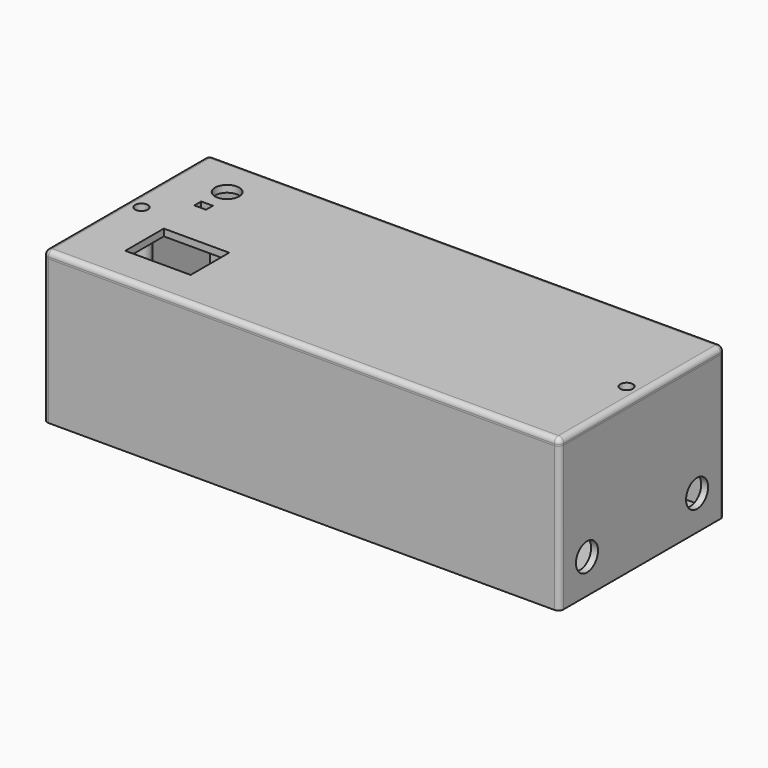
from build123d import *

# Parameters (mm, degrees)
F0_W     = 150
F0_H     = 60
F0_R     = 1.75
F1_DEPTH = 2
F2_W     = 150
F2_H     = 60
F2_R     = 1.25
F3_DEPTH = 40
F4_W     = 150
F4_H     = 60
F4_R     = 1.85
F4_W_2   = 19
F4_H_2   = 14
F4_W_3   = 3.4
F4_H_3   = 2.5
F4_R_2   = 3.5
F5_DEPTH = 2
F6_R     = 1.5
F7_R     = 1.5
F8_R     = 4
F9_DEPTH = 3


with BuildPart() as f1:
    # F0 (on Top) → F1 (new body)
    with BuildSketch(Plane.XY):
        Rectangle(F0_W, F0_H)
        with Locations((-2.5, -18.25)):
            Circle(F0_R, mode=Mode.SUBTRACT)
        with Locations((62, -18.25)):
            Circle(F0_R, mode=Mode.SUBTRACT)
        with Locations((-2.5, 18.25)):
            Circle(F0_R, mode=Mode.SUBTRACT)
        with Locations((62, 18.25)):
            Circle(F0_R, mode=Mode.SUBTRACT)
    extrude(amount=-F1_DEPTH)

    # F2 (on Top) → F3 (join)
    with BuildSketch(Plane.XY):
        Rectangle(F2_W, F2_H)
        with Locations((-70.5, 0)):
            Circle(F2_R, mode=Mode.SUBTRACT)
        with BuildLine():
            Line((-73, 28), (73, 28))
            Line((73, 28), (73, 2.479292469))
            Line((73, 2.479292469), (70.5207932884, 2.4999135263))
            ThreePointArc((70.5207932884, 2.4999135263), (68.0000180064, -0.0094885014), (70.5397688992, -2.4996836669))
            Line((70.5397688992, -2.4996836669), (73, -2.4996836669))
            Line((73, -2.4996836669), (73, -28))
            Line((73, -28), (-73, -28))
            Line((-73, -28), (-73, -2.4493907383))
            Line((-73, -2.4493907383), (-70.551121414, -2.4994772656))
            ThreePointArc((-70.551121414, -2.4994772656), (-68.0007111858, -0.0596273679), (-70.4318673688, 2.4990714165))
            Line((-70.4318673688, 2.4990714165), (-70.5681326312, 2.4990714165))
            Line((-70.5681326312, 2.4990714165), (-73, 2.4990714165))
            Line((-73, 2.4990714165), (-73, 28))
        make_face(mode=Mode.SUBTRACT)
        with Locations((70.5, 0)):
            Circle(F2_R, mode=Mode.SUBTRACT)
        Rectangle(F2_W, F2_H)
        with Locations((-70.5, 0)):
            Circle(F2_R, mode=Mode.SUBTRACT)
        with BuildLine():
            Line((-73, 28), (73, 28))
            Line((73, 28), (73, 2.479292469))
            Line((73, 2.479292469), (70.5207932884, 2.4999135263))
            ThreePointArc((70.5207932884, 2.4999135263), (68.0000180064, -0.0094885014), (70.5397688992, -2.4996836669))
            Line((70.5397688992, -2.4996836669), (73, -2.4996836669))
            Line((73, -2.4996836669), (73, -28))
            Line((73, -28), (-73, -28))
            Line((-73, -28), (-73, -2.4493907383))
            Line((-73, -2.4493907383), (-70.551121414, -2.4994772656))
            ThreePointArc((-70.551121414, -2.4994772656), (-68.0007111858, -0.0596273679), (-70.4318673688, 2.4990714165))
            Line((-70.4318673688, 2.4990714165), (-70.5681326312, 2.4990714165))
            Line((-70.5681326312, 2.4990714165), (-73, 2.4990714165))
            Line((-73, 2.4990714165), (-73, 28))
        make_face(mode=Mode.SUBTRACT)
        with Locations((70.5, 0)):
            Circle(F2_R, mode=Mode.SUBTRACT)
        Rectangle(F2_W, F2_H)
        with Locations((-70.5, 0)):
            Circle(F2_R, mode=Mode.SUBTRACT)
        with BuildLine():
            Line((-73, 28), (73, 28))
            Line((73, 28), (73, 2.479292469))
            Line((73, 2.479292469), (70.5207932884, 2.4999135263))
            ThreePointArc((70.5207932884, 2.4999135263), (68.0000180064, -0.0094885014), (70.5397688992, -2.4996836669))
            Line((70.5397688992, -2.4996836669), (73, -2.4996836669))
            Line((73, -2.4996836669), (73, -28))
            Line((73, -28), (-73, -28))
            Line((-73, -28), (-73, -2.4493907383))
            Line((-73, -2.4493907383), (-70.551121414, -2.4994772656))
            ThreePointArc((-70.551121414, -2.4994772656), (-68.0007111858, -0.0596273679), (-70.4318673688, 2.4990714165))
            Line((-70.4318673688, 2.4990714165), (-70.5681326312, 2.4990714165))
            Line((-70.5681326312, 2.4990714165), (-73, 2.4990714165))
            Line((-73, 2.4990714165), (-73, 28))
        make_face(mode=Mode.SUBTRACT)
        with Locations((70.5, 0)):
            Circle(F2_R, mode=Mode.SUBTRACT)
    extrude(amount=F3_DEPTH)

    # F7
    f7_edges = [f1.edges().sort_by_distance(p)[0] for p in [
        (-75, -30, 19),
        (-75, 30, 19),
        (75, -30, 19),
        (75, 30, 19),
    ]]
    fillet(f7_edges, radius=F7_R)

    # F8 (on face) → F9 (cut)
    with BuildSketch(Plane.YZ.offset(75)):
        with Locations((-20, 8)):
            Circle(F8_R)
        with Locations((20, 8)):
            Circle(F8_R)
    extrude(amount=-F9_DEPTH, mode=Mode.SUBTRACT)


with BuildPart() as f5:
    # F4 (on face) → F5 (new body)
    with BuildSketch(Plane.XY.offset(40)):
        Rectangle(F4_W, F4_H)
        with Locations((-70.5, 0)):
            Circle(F4_R, mode=Mode.SUBTRACT)
        with BuildLine():
            ThreePointArc((-70.551121414, -2.4994772656), (-68.0007111858, -0.0596273679), (-70.4318673688, 2.4990714165))
            Line((-70.4318673688, 2.4990714165), (-73, 2.4990714165))
            Line((-73, 2.4990714165), (-73, 28))
            Line((-73, 28), (73, 28))
            Line((73, 28), (73, 2.479292469))
            Line((73, 2.479292469), (70.5207932884, 2.4999135263))
            ThreePointArc((70.5207932884, 2.4999135263), (68.0000180064, -0.0094885014), (70.5397688992, -2.4996836669))
            Line((70.5397688992, -2.4996836669), (73, -2.4996836669))
            Line((73, -2.4996836669), (73, -28))
            Line((73, -28), (-73, -28))
            Line((-73, -28), (-73, -2.4493907383))
            Line((-73, -2.4493907383), (-70.551121414, -2.4994772656))
        make_face(mode=Mode.SUBTRACT)
        with Locations((70.5, 0)):
            Circle(F4_R, mode=Mode.SUBTRACT)
        with BuildLine():
            Line((-73, 2.4990714165), (-70.4318673688, 2.4990714165))
            ThreePointArc((-70.4318673688, 2.4990714165), (-68.0007111858, -0.0596273679), (-70.551121414, -2.4994772656))
            Line((-70.551121414, -2.4994772656), (-73, -2.4493907383))
            Line((-73, -2.4493907383), (-73, -28))
            Line((-73, -28), (73, -28))
            Line((73, -28), (73, -2.4996836669))
            Line((73, -2.4996836669), (70.5397688992, -2.4996836669))
            ThreePointArc((70.5397688992, -2.4996836669), (68.0000180064, -0.0094885014), (70.5207932884, 2.4999135263))
            Line((70.5207932884, 2.4999135263), (73, 2.479292469))
            Line((73, 2.479292469), (73, 28))
            Line((73, 28), (-73, 28))
            Line((-73, 28), (-73, 2.4990714165))
        make_face()
        with Locations((-50.5, -12)):
            Rectangle(F4_W_2, F4_H_2, mode=Mode.SUBTRACT)
        with Locations((-60, 9.45)):
            Rectangle(F4_W_3, F4_H_3, mode=Mode.SUBTRACT)
        with Locations((-60, 18)):
            Circle(F4_R_2, mode=Mode.SUBTRACT)
    extrude(amount=F5_DEPTH)

    # F6
    f6_edges = [f5.edges().sort_by_distance(p)[0] for p in [
        (75, 0, 42),
        (0, 30, 42),
        (0, -30, 42),
        (-75, 0, 42),
        (75, 30, 41),
        (75, -30, 41),
        (-75, -30, 41),
        (-75, 30, 41),
    ]]
    fillet(f6_edges, radius=F6_R)


solid = Compound([f1.part, f5.part])
